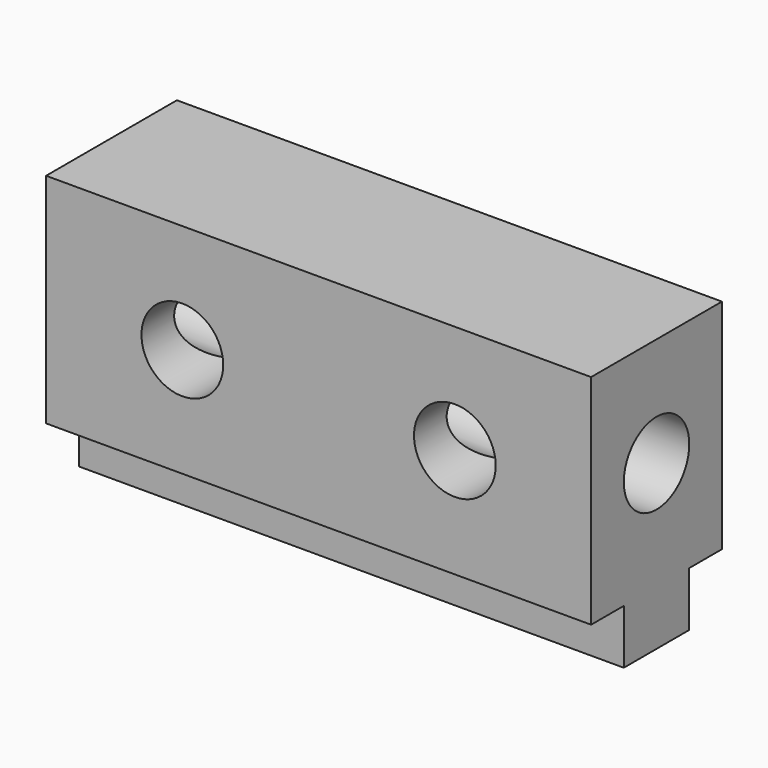
from build123d import *

# Parameters (mm, degrees)
F1_DEPTH = 127
F2_R     = 9.525
F3_DEPTH = 127.001
F4_R     = 9.525
F5_DEPTH = 38.101


with BuildPart() as f1:
    # F0 (on Right) → F1 (new body)
    with BuildSketch(Plane.YZ):
        Polygon((-20.97832, -24.18907), (-20.97832, -11.48907), (-11.45332, -11.48907), (-11.45332, 39.31093), (-49.55332, 39.31093), (-49.55332, -11.48907), (-40.02832, -11.48907), (-40.02832, -24.18907), align=None)
    extrude(amount=-F1_DEPTH)

    # F2 (on face) → F3 (cut, through all)
    with BuildSketch(Plane.YZ):
        with Locations((-30.50332, 13.91093)):
            Circle(F2_R)
    extrude(amount=-F3_DEPTH, mode=Mode.SUBTRACT)

    # F4 (on face) → F5 (cut, through all)
    with BuildSketch(Plane.XZ.offset(49.55332)):
        with Locations((-95.25, 13.91093)):
            Circle(F4_R)
        with Locations((-31.75, 13.91093)):
            Circle(F4_R)
    extrude(amount=-F5_DEPTH, mode=Mode.SUBTRACT)


solid = f1.part
